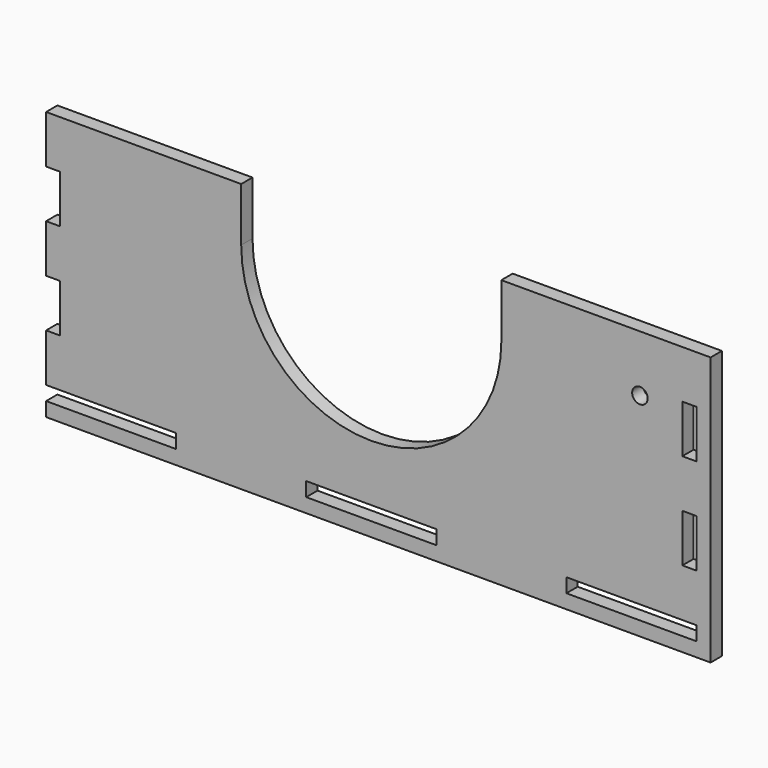
from build123d import *

# Parameters (mm, degrees)
F0_W     = 46
F0_H     = 5
F0_W_2   = 5
F0_H_2   = 17
F0_R     = 2.75
F1_DEPTH = 5


with BuildPart() as f1:
    # F0 (on Front) → F1 (new body)
    with BuildSketch(Plane.XZ):
        with BuildLine():
            Line((115, 42.5), (110, 42.5))
            Line((110, 42.5), (46, 42.5))
            Line((46, 42.5), (46, 23.5))
            ThreePointArc((46, 23.5), (0, -22.5), (-46, 23.5))
            Line((-46, 23.5), (-46, 42.5))
            Line((-46, 42.5), (-110, 42.5))
            Line((-110, 42.5), (-115, 42.5))
            Line((-115, 42.5), (-115, 25.5))
            Line((-115, 25.5), (-110, 25.5))
            Line((-110, 25.5), (-110, 8.5))
            Line((-110, 8.5), (-115, 8.5))
            Line((-115, 8.5), (-115, -8.5))
            Line((-115, -8.5), (-110, -8.5))
            Line((-110, -8.5), (-110, -25.5))
            Line((-110, -25.5), (-115, -25.5))
            Line((-115, -25.5), (-115, -42.5))
            Line((-115, -42.5), (-69, -42.5))
            Line((-69, -42.5), (-69, -47.5))
            Line((-69, -47.5), (-115, -47.5))
            Line((-115, -47.5), (-115, -52.5))
            Line((-115, -52.5), (115, -52.5))
            Line((115, -52.5), (120, -52.5))
            Line((120, -52.5), (120, 42.5))
            Line((120, 42.5), (115, 42.5))
        make_face()
        with Locations((0, -45)):
            Rectangle(F0_W, F0_H, mode=Mode.SUBTRACT)
        with Locations((92, -45)):
            Rectangle(F0_W, F0_H, mode=Mode.SUBTRACT)
        with Locations((112.5, -17)):
            Rectangle(F0_W_2, F0_H_2, mode=Mode.SUBTRACT)
        with Locations((112.5, 17)):
            Rectangle(F0_W_2, F0_H_2, mode=Mode.SUBTRACT)
        with Locations((95, 22.5)):
            Circle(F0_R, mode=Mode.SUBTRACT)
    extrude(amount=F1_DEPTH)


solid = f1.part
